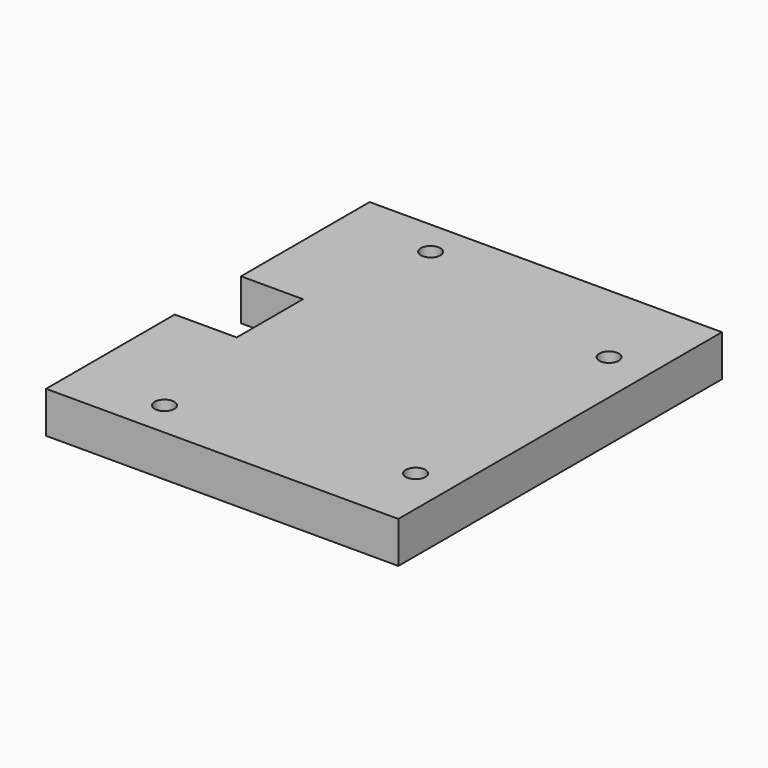
from build123d import *

# Parameters (mm, degrees)
F0_W     = 216
F0_H     = 25.4
F1_DEPTH = 248
F2_R     = 6
F3_DEPTH = 12.7
F4_W     = 38
F4_H     = 50.8
F5_DEPTH = 25.4


with BuildPart() as f1:
    # F0 (on Front) → F1 (new body)
    with BuildSketch(Plane.XZ):
        with Locations((-108, 12.7)):
            Rectangle(F0_W, F0_H)
    extrude(amount=-F1_DEPTH)

    # F2 (on face) → F3 (cut)
    with BuildSketch(Plane.XY.offset(25.4)):
        with Locations((-161, 226)):
            Circle(F2_R)
        with Locations((-161, 22)):
            Circle(F2_R)
        with Locations((-26, 194)):
            Circle(F2_R)
        with Locations((-23, 42)):
            Circle(F2_R)
    extrude(amount=-F3_DEPTH, mode=Mode.SUBTRACT)

    # F4 (on face) → F5 (cut, through all)
    with BuildSketch(Plane.XY.offset(25.4)):
        with Locations((-197, 124)):
            Rectangle(F4_W, F4_H)
    extrude(amount=-F5_DEPTH, mode=Mode.SUBTRACT)


solid = f1.part
